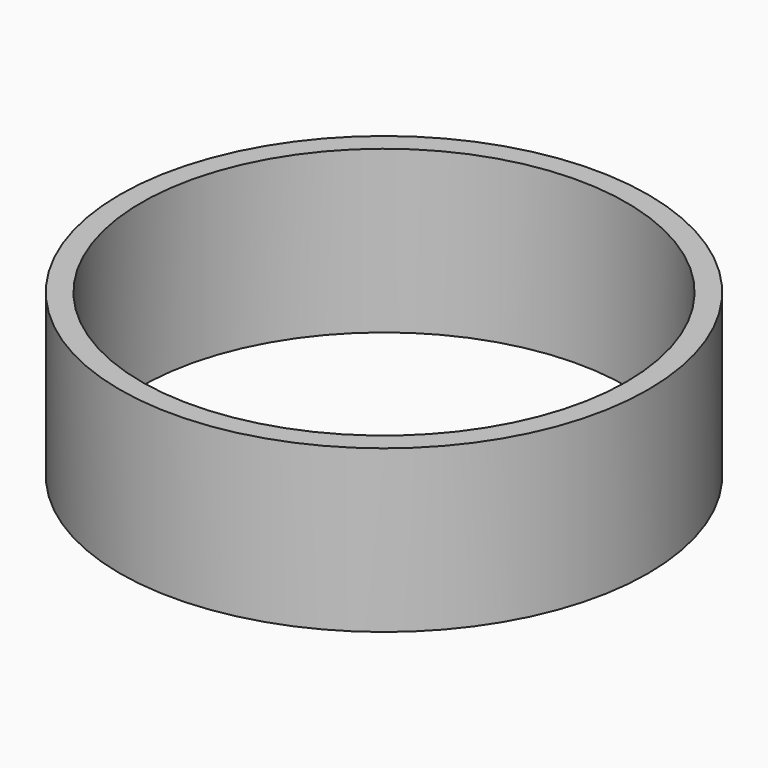
from build123d import *

# Parameters (mm, degrees)
F0_R     = 73.5
F0_R_2   = 70.5
F0_R_3   = 67.5
F3_DEPTH = 45


with BuildPart() as f3:
    # F0 (on Top) → F3 (new body)
    with BuildSketch(Plane.XY):
        Circle(F0_R)
        Circle(F0_R_2, mode=Mode.SUBTRACT)
        Circle(F0_R_2)
        Circle(F0_R_3, mode=Mode.SUBTRACT)
    extrude(amount=F3_DEPTH)


solid = f3.part
